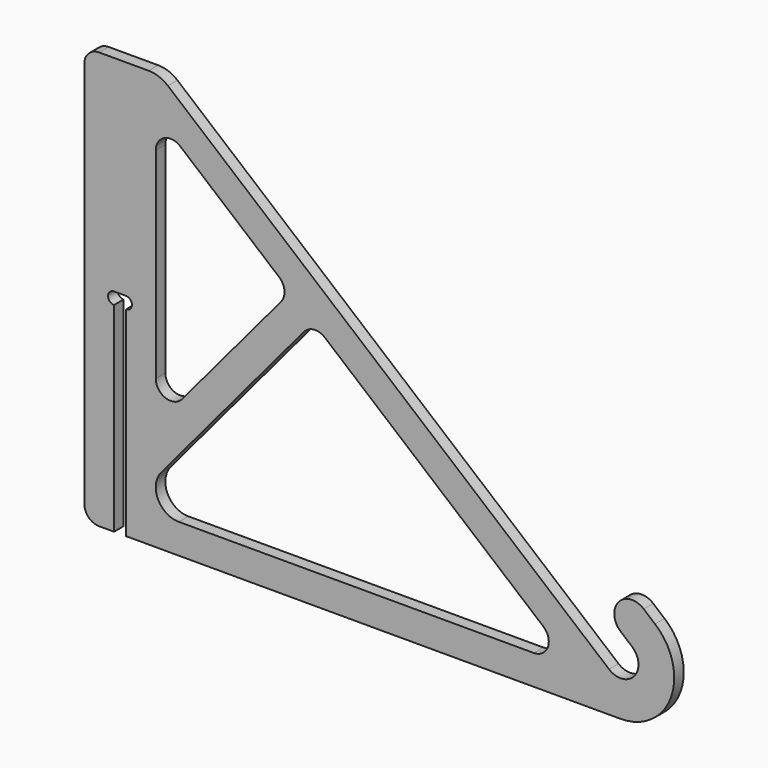
from build123d import *

# Parameters (mm, degrees)
F1_DEPTH = 2
F3_DEPTH = 4.001


with BuildPart() as f1:
    # F0 (on Front) → F1 (new body, symmetric)
    with BuildSketch(Plane.XZ):
        with BuildLine():
            ThreePointArc((3.8567256581, 4.5962666587), (4.5962666587, -3.8567256581), (-3.8567256581, -4.5962666587))
            Line((-3.8567256581, -4.5962666587), (-151.9401075035, 119.6604444312))
            ThreePointArc((-151.9401075035, 119.6604444312), (-154.9477821671, 121.3969262079), (-158.3679836003, 122))
            Line((-158.3679836003, 122), (-175, 122))
            ThreePointArc((-175, 122), (-178.5355339059, 120.5355339059), (-180, 117))
            Line((-180, 117), (-180, -13))
            ThreePointArc((-180, -13), (-178.5355339059, -16.5355339059), (-175, -18))
            Line((-175, -18), (-170, -18))
            Line((-170, -18), (-170, 49))
            ThreePointArc((-170, 49), (-172, 51), (-170, 53))
            Line((-170, 53), (-166, 53))
            ThreePointArc((-166, 53), (-164, 51), (-166, 49))
            Line((-166, 49), (-166, -18))
            Line((-166, -18), (0, -18))
            ThreePointArc((0, -18), (16.9144671741, -6.1563625799), (11.5701769744, 13.7887999761))
            Line((11.5701769744, 13.7887999761), (7.7399547588, 17.0027380246))
            ThreePointArc((7.7399547588, 17.0027380246), (-0.7130375581, 16.263197024), (0.0265034425, 7.8102047071))
            Line((0.0265034425, 7.8102047071), (3.8567256581, 4.5962666587))
        make_face()
    extrude(amount=F1_DEPTH, both=True)

    # F2 (on face) → F3 (cut, through all)
    with BuildSketch(Plane.XZ.offset(2)):
        with BuildLine():
            Line((-114.5718371995, 75.2506697081), (-147.7860619516, 103.1207134474))
            ThreePointArc((-147.7860619516, 103.1207134474), (-153.1130913087, 103.822030167), (-156, 99.2904912318))
            Line((-156, 99.2904912318), (-156, 31.8372758191))
            ThreePointArc((-156, 31.8372758191), (-152.7101007166, 27.1388127151), (-147.1697777844, 28.6233377706))
            Line((-147.1697777844, 28.6233377706), (-113.9555530324, 68.2065094441))
            ThreePointArc((-113.9555530324, 68.2065094441), (-112.8048017575, 71.8562262063), (-114.5718371995, 75.2506697081))
        make_face()
        with BuildLine():
            Line((-25.8810015379, 0.8302222156), (-99.2509483372, 62.3949175144))
            ThreePointArc((-99.2509483372, 62.3949175144), (-102.9006650993, 63.5456687893), (-106.2951086012, 61.7786333472))
            Line((-106.2951086012, 61.7786333472), (-154.1916675336, 4.6977371666))
            ThreePointArc((-154.1916675336, 4.6977371666), (-155.2758168568, -3.5371945138), (-148.2706154516, -8))
            Line((-148.2706154516, -8), (-29.0949395863, -8))
            ThreePointArc((-29.0949395863, -8), (-24.3964764824, -4.7101007166), (-25.8810015379, 0.8302222156))
        make_face()
    extrude(amount=-F3_DEPTH, mode=Mode.SUBTRACT)


solid = f1.part
